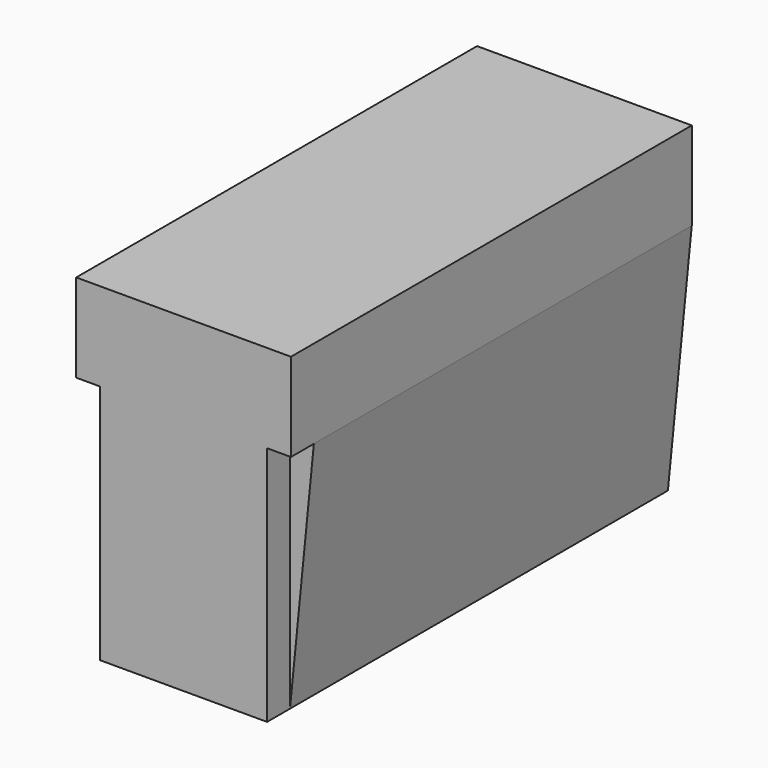
from build123d import *

# Parameters (mm, degrees)
F1_DEPTH = 533.4
F3_DEPTH = 30.48
F5_DEPTH = 25.4


with BuildPart() as f1:
    # F0 (on Front) → F1 (new body)
    with BuildSketch(Plane.XZ):
        Polygon((-20.0246775488, 194.6782106813), (-248.6246775488, 194.6782106813), (-248.6246775488, 100.6982106813), (-223.2246775488, 100.6982106813), (-224.7843856167, -140.0887378329), (-223.2246775488, -155.8417893187), (-45.4246775488, -155.8417893187), (-43.8649694809, -140.0887378329), (-45.4246775488, 100.6982106813), (-20.0246775488, 100.6982106813), align=None)
        Polygon((-223.2246775488, 100.6982106813), (-248.6246775488, 100.6982106813), (-224.7843856167, -140.0887378329), align=None)
        Polygon((-43.8649694809, -140.0887378329), (-20.0246775488, 100.6982106813), (-45.4246775488, 100.6982106813), align=None)
    extrude(amount=F1_DEPTH)

    # F2 (on face) → F3 (cut)
    with BuildSketch(Plane.XZ.offset(533.4)):
        Polygon((-223.0825424194, 100.6982106813), (-248.6246775488, 100.6982106813), (-223.2246775488, -155.8417893187), align=None)
        Polygon((-45.4246775488, 100.6982106813), (-45.4246775488, -155.8417893187), (-20.0246775488, 100.6982106813), align=None)
    extrude(amount=-F3_DEPTH, mode=Mode.SUBTRACT)

    # F4 (on face) → F5 (cut)
    with BuildSketch(Plane.XZ):
        Polygon((-43.5820221101, -153.1578327248), (-18.1820221101, 100.8364513063), (-20.0246775488, 100.8364513063), (-20.0246775488, 100.6982106813), (-45.2851133126, 100.6982106813), align=None)
        Polygon((-223.2246775488, 100.6982106813), (-246.6658660559, 100.6982106813), (-224.6561073752, -120.2852073061), align=None)
        Polygon((-222.1963950907, 100.6689677848), (-246.7820221101, 101.8644461788), (-246.6658660559, 100.6982106813), (-223.2246775488, 100.6982106813), (-224.6561073752, -120.2852073061), (-221.3820221101, -153.1578327248), align=None)
    extrude(amount=-F5_DEPTH, mode=Mode.SUBTRACT)


solid = f1.part
